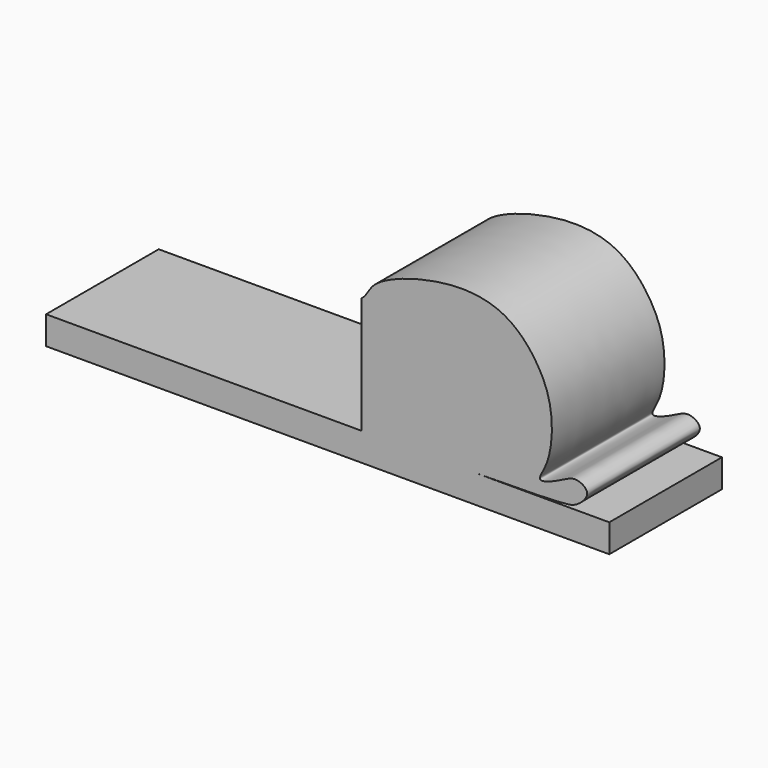
from build123d import *

# Parameters (mm, degrees)
F0_W     = 76.2
F0_H     = 19.05
F1_DEPTH = 3.81
F5_DEPTH = 19.05


with BuildPart() as f1:
    # F0 (on Top) → F1 (new body)
    with BuildSketch(Plane.XY):
        with Locations((7.4741337448, 6.4919628284)):
            Rectangle(F0_W, F0_H)
    extrude(amount=F1_DEPTH)

    # F4 (on offset) → F5 (join)
    with BuildSketch(Plane(origin=(0, 16.0169628284, 0), x_dir=(-1, 0, 0), z_dir=(0, 1, 0))):
        with BuildLine():
            Line((-12.0461337448, 3.7857289426), (-12.0461337448, 4.3461374483))
            Line((-12.0461337448, 4.3461374483), (-12.0461337448, 19.5861374483))
            add(Edge.make_bspline(
                [(-12.0461337448, 19.5861374483), (-12.8450258305, 20.1851786791), (-13.2003187591, 22.541325824), (-23.5499643659, 25.8313706081), (-31.6271121717, 24.6653862833), (-36.0582542895, 19.7191143335), (-38.1100543034, 14.6705489424), (-37.7141967025, 8.3396109719), (-35.295545459, 5.1758742646), (-39.0315481505, 6.5752277484), (-40.9306601916, 7.8867458281), (-43.2929081778, 6.3941576735), (-41.2379129088, 4.3410196268), (-38.6576023854, 3.7841473352), (-24.2815873475, 3.7806625507), (-12.0461337448, 3.7857289426)],
                knots=[0, 0, 0, 0, 0.0575266924, 0.1655450789, 0.2635543118, 0.3475450412, 0.4273090606, 0.5143679861, 0.566321714, 0.6215700567, 0.6759891049, 0.7217753751, 0.7708110605, 0.8219081326, 1, 1, 1, 1], degree=3))
        make_face()
    extrude(amount=-F5_DEPTH)


solid = f1.part
